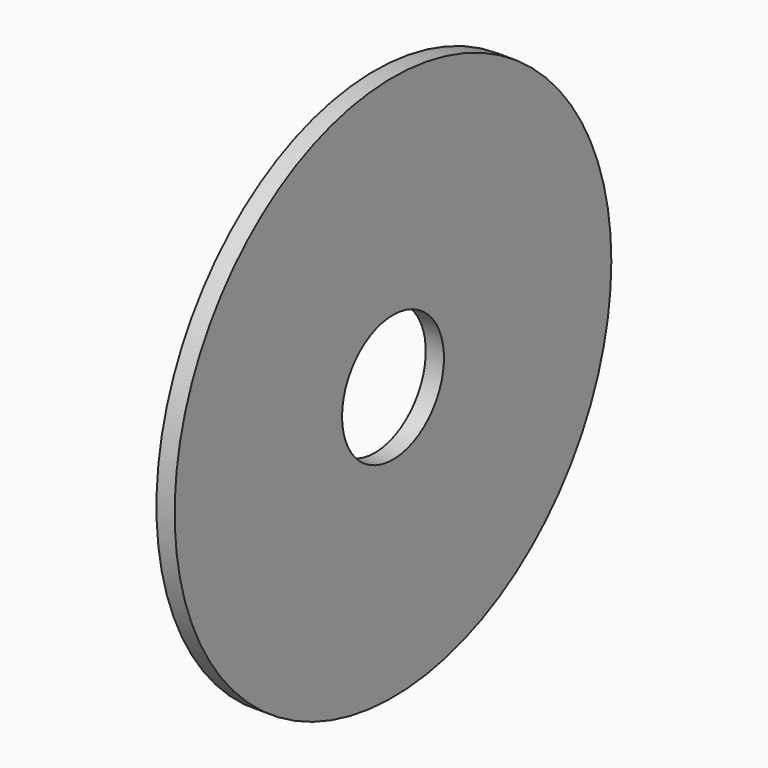
from build123d import *

# Parameters (mm, degrees)
F0_R     = 38.1
F1_DEPTH = 2.54
F3_D     = 17.78


with BuildPart() as f1:
    # F0 (on Right) → F1 (new body)
    with BuildSketch(Plane.YZ):
        Circle(F0_R)
    extrude(amount=F1_DEPTH)

    # F3 (through all)
    with Locations(Plane(origin=(0, 0, 0), x_dir=(0, 1, 0), z_dir=(-1, 0, 0))):
        with Locations((0, 0)):
            Hole(F3_D / 2)


solid = f1.part
